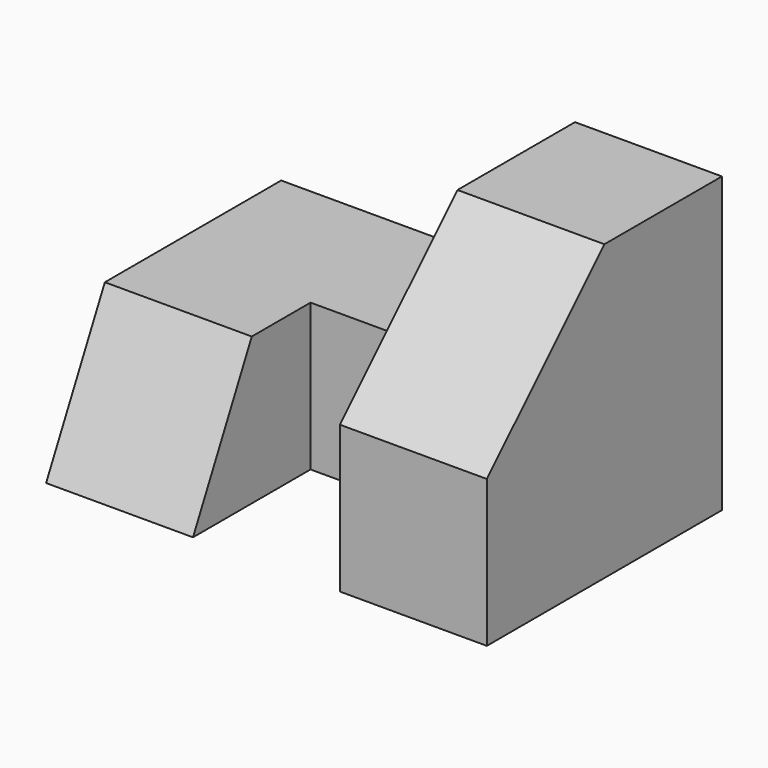
from build123d import *

# Parameters (mm, degrees)
F1_DEPTH = 25.4
F2_DEPTH = 12.7
F4_DEPTH = 25.4
F6_DEPTH = 25.4


with BuildPart() as f1:
    # F0 (on Top) → F1 (new body)
    with BuildSketch(Plane.XY):
        Polygon((38.1, 25.4), (25.4, 25.4), (25.4, 12.7), (25.4, 0), (38.1, 0), align=None)
    extrude(amount=F1_DEPTH)

    # F0 (on Top) → F2 (join)
    with BuildSketch(Plane.XY):
        Polygon((0, 25.4), (0, 0), (12.7, 0), (12.7, 12.7), (25.4, 12.7), (25.4, 25.4), align=None)
        Polygon((38.1, 25.4), (25.4, 25.4), (25.4, 12.7), (25.4, 0), (38.1, 0), align=None)
    extrude(amount=F2_DEPTH)

    # F3 (on face) → F4 (cut)
    with BuildSketch(Plane.YZ.offset(12.7)):
        Polygon((0, 0), (6.35, 12.7), (0, 12.7), align=None)
    extrude(amount=-F4_DEPTH, mode=Mode.SUBTRACT)

    # F5 (on face) → F6 (cut)
    with BuildSketch(Plane.YZ.offset(38.1)):
        Polygon((0, 12.7), (12.7, 25.4), (0, 25.4), align=None)
    extrude(amount=-F6_DEPTH, mode=Mode.SUBTRACT)


solid = f1.part
